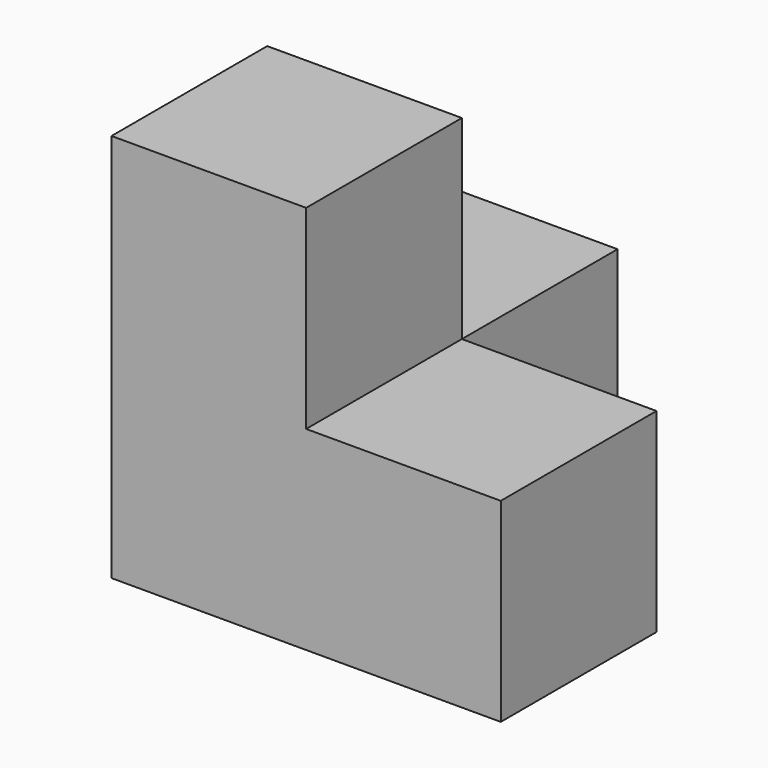
from build123d import *

# Parameters (mm, degrees)
BOX001_W     = 10
BOX001_H     = 10
BOX001_DEPTH = 10
BOX002_W     = 10
BOX002_H     = 10
BOX002_DEPTH = 10
BOX_W        = 10
BOX_H        = 10
BOX_DEPTH    = 20


with BuildPart() as cub001:
    # Box001 → Box001 (new body)
    with BuildSketch(Plane(origin=(10, 0, 0), x_dir=(1, 0, 0), z_dir=(0, 0, 1))):
        with Locations((5, 5)):
            Rectangle(BOX001_W, BOX001_H)
    extrude(amount=BOX001_DEPTH)


with BuildPart() as cub002:
    # Box002 → Box002 (new body)
    with BuildSketch(Plane(origin=(0, 10, 0), x_dir=(1, 0, 0), z_dir=(0, 0, 1))):
        with Locations((5, 5)):
            Rectangle(BOX002_W, BOX002_H)
    extrude(amount=BOX002_DEPTH)


with BuildPart() as fusion:
    # Box → Box (new body)
    with BuildSketch(Plane.XY):
        with Locations((5, 5)):
            Rectangle(BOX_W, BOX_H)
    extrude(amount=BOX_DEPTH)

    # Fusion: union Cub001, Cub002
    add(cub001.part)
    add(cub002.part)


solid = fusion.part
